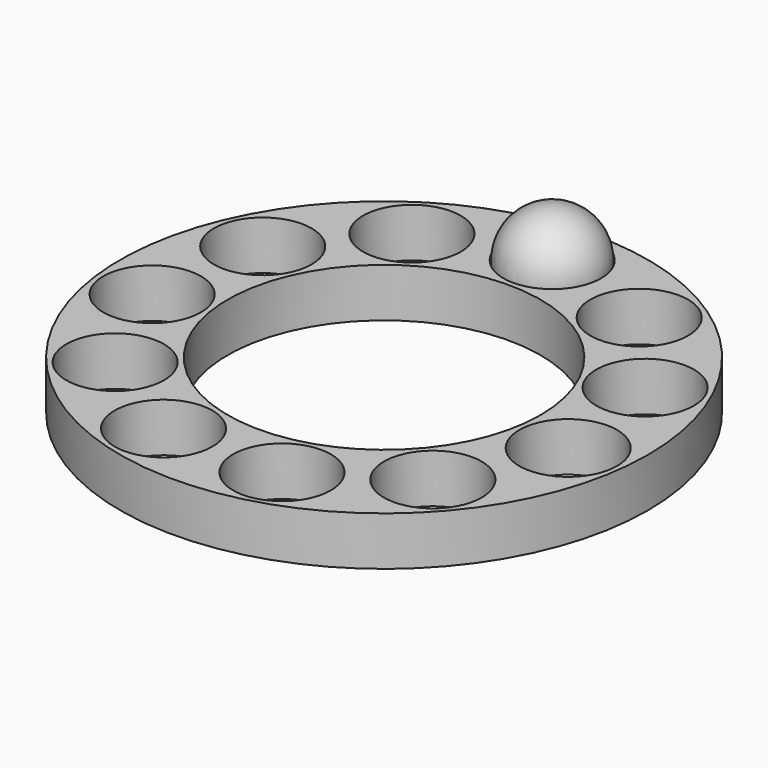
from build123d import *

# Parameters (mm, degrees)
F0_R     = 13.5
F0_R_2   = 8
F1_DEPTH = 2.5
F2_R     = 2.5
F3_DEPTH = 2.5


with BuildPart() as f1:
    # F0 (on Top) → F1 (new body)
    with BuildSketch(Plane.XY):
        Circle(F0_R)
        Circle(F0_R_2, mode=Mode.SUBTRACT)
    extrude(amount=F1_DEPTH)

    # F2 (on face) → F3 (cut)
    with BuildSketch(Plane.XY.offset(2.5)):
        with Locations((0, 10.75)):
            Circle(F2_R)
        with Locations((5.811889, 9.043475)):
            Circle(F2_R)
        with Locations((9.778544, 4.465711)):
            Circle(F2_R)
        with Locations((10.640581, -1.529885)):
            Circle(F2_R)
        with Locations((8.124308, -7.039753)):
            Circle(F2_R)
        with Locations((3.028625, -10.314549)):
            Circle(F2_R)
        with Locations((-3.028625, -10.314549)):
            Circle(F2_R)
        with Locations((-8.124308, -7.039753)):
            Circle(F2_R)
        with Locations((-10.64058, -1.529885)):
            Circle(F2_R)
        with Locations((-9.778544, 4.465711)):
            Circle(F2_R)
        with Locations((-5.811889, 9.043475)):
            Circle(F2_R)
    extrude(amount=-F3_DEPTH, mode=Mode.SUBTRACT)


with BuildPart() as f5:
    # F4 (on face) → F5 (revolve)
    with BuildSketch(Plane.XY.offset(2.5)):
        with BuildLine():
            Line((2.45, 10.75), (0, 10.75))
            Line((0, 10.75), (-2.45, 10.75))
            ThreePointArc((-2.45, 10.75), (0, 8.3), (2.45, 10.75))
        make_face()
    revolve(axis=Axis((1.225, 10.75, 2.5), (1, 0, 0)))


solid = Compound([f1.part, f5.part])
